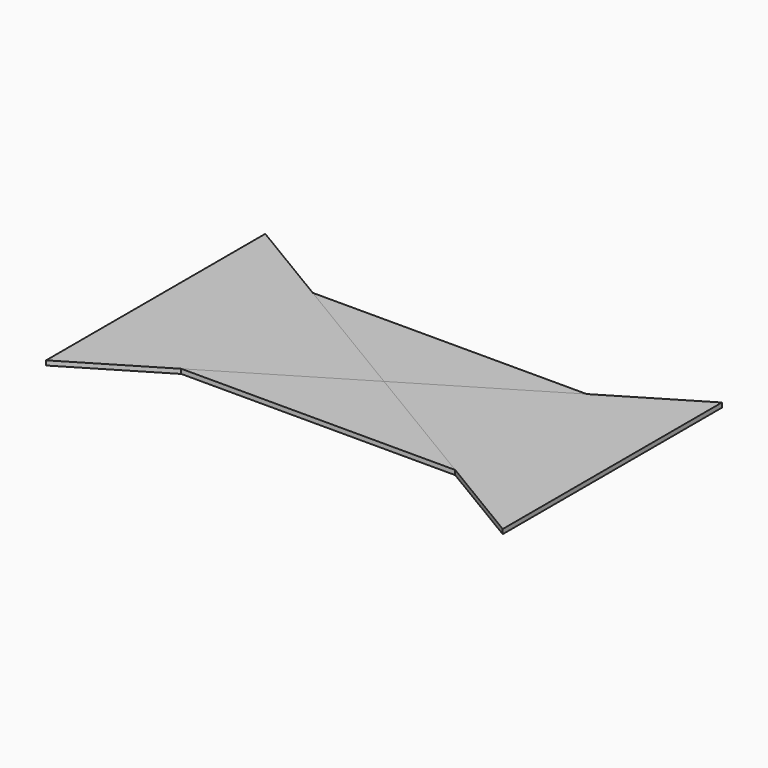
from build123d import *

# Parameters (mm, degrees)
F2_DEPTH = 25
F3_DEPTH = 25


with BuildPart() as f2:
    # F1 (on Top) → F2 (new body)
    with BuildSketch(Plane.XY):
        Polygon((750, -450), (1250, -750), (1250, -450), align=None)
        Polygon((750, 450), (1250, 450), (1250, 750), align=None)
        Polygon((750, -450), (1250, -450), (1250, 450), (750, 450), (0, 0), align=None)
    extrude(amount=F2_DEPTH)


with BuildPart() as f2b:
    # F1 (on Top) → F2, piece 2 (new body)
    with BuildSketch(Plane.XY):
        Polygon((-1250, -450), (-1250, -750), (-750, -450), align=None)
        Polygon((-1250, 750), (-1250, 450), (-750, 450), align=None)
        Polygon((-1250, 450), (-1250, -450), (-750, -450), (0, 0), (-750, 450), align=None)
    extrude(amount=F2_DEPTH)


with BuildPart() as f3:
    # F1 (on Top) → F3 (new body)
    with BuildSketch(Plane.XY):
        Polygon((-750, 450), (0, 0), (750, 450), align=None)
    extrude(amount=F3_DEPTH)


with BuildPart() as f3b:
    # F1 (on Top) → F3, piece 2 (new body)
    with BuildSketch(Plane.XY):
        Polygon((-750, -450), (750, -450), (0, 0), align=None)
    extrude(amount=F3_DEPTH)


solid = Compound([f2.part, f2b.part, f3.part, f3b.part])
